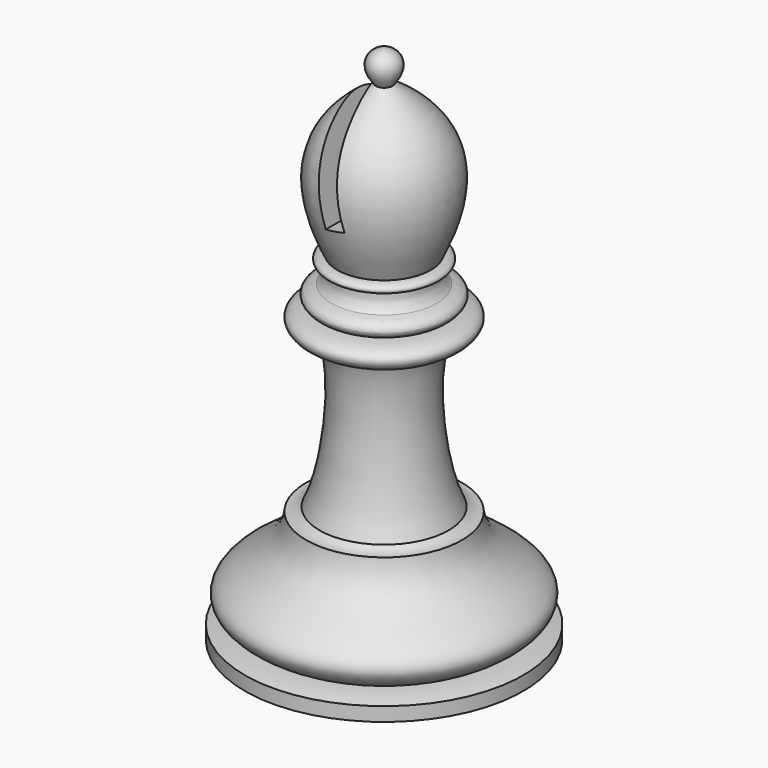
from build123d import *

# Parameters (mm, degrees)
F4_DEPTH = 25


with BuildPart() as f2:
    # F1 (on Front) → F2 (revolve)
    with BuildSketch(Plane.XZ):
        with BuildLine():
            Line((-10, 0), (0, 0))
            Line((0, 0), (0, 37.3768918216))
            add(Edge.make_bspline(
                [(-0.6, 35.1937040687), (-1.7320077168, 36.5965291858), (-0.7042200305, 37.3861715198), (0, 37.3768918216)],
                knots=[0, 0, 0, 0, 2.2641353238, 2.2641353238, 2.2641353238, 2.2641353238], degree=3))
            add(Edge.make_bspline(
                [(-3.3507852349, 24.4516711682), (-6.3570523635, 30.6930169463), (-3.5995733924, 33.2499518991), (-0.6, 35.1937040687)],
                knots=[0, 0, 0, 0, 11.0886469077, 11.0886469077, 11.0886469077, 11.0886469077], degree=3))
            add(Edge.make_bspline(
                [(-3.3507852349, 23.7380396575), (-4.3494068086, 23.8647516817), (-4.028938245, 24.4386140257), (-3.3507852349, 24.4516711682)],
                knots=[0, 0, 0, 0, 0.7136315107, 0.7136315107, 0.7136315107, 0.7136315107], degree=3))
            add(Edge.make_bspline(
                [(-3.8014997263, 22.4985741079), (-3.4103591461, 22.7468386292), (-3.335831454, 23.2387203723), (-3.3507852349, 23.7380396575)],
                knots=[0, 0, 0, 0, 1.318870123, 1.318870123, 1.318870123, 1.318870123], degree=3))
            add(Edge.make_bspline(
                [(-3.8014997263, 21.1839899421), (-4.4537456706, 21.1817584932), (-5.4151513614, 22.0909956843), (-3.8014997263, 22.4985741079)],
                knots=[0, 0, 0, 0, 1.3145841658, 1.3145841658, 1.3145841658, 1.3145841658], degree=3))
            add(Edge.make_bspline(
                [(-3.8014997263, 19.3435717374), (-5.6089232676, 19.4303598255), (-6.7044785246, 21.092325449), (-3.8014997263, 21.1839899421)],
                knots=[0, 0, 0, 0, 1.8404182047, 1.8404182047, 1.8404182047, 1.8404182047], degree=3))
            add(Edge.make_bspline(
                [(-4.6344301663, 8.4140021354), (-3.5212442745, 10.7452757657), (-2.7253848966, 16.4754614234), (-3.8014997263, 19.3435717374)],
                knots=[0, 0, 0, 0, 10.9612620078, 10.9612620078, 10.9612620078, 10.9612620078], degree=3))
            add(Edge.make_bspline(
                [(-5.5932807736, 8.1069199368), (-5.2799307741, 8.0755846575), (-4.935245961, 8.2071917132), (-4.6344301663, 8.4140021354)],
                knots=[0, 0, 0, 0, 1.0068237004, 1.0068237004, 1.0068237004, 1.0068237004], degree=3))
            add(Edge.make_bspline(
                [(-8.1584081054, 1.3149880106), (-11.3595824579, 3.0161592519), (-6.5746559821, 5.2802580502), (-5.7193240103, 6.9660751392), (-5.5932807736, 8.1069199368)],
                knots=[0, 0, 0, 0, 0.5166167642, 1, 1, 1, 1], degree=3))
            add(Edge.make_bspline(
                [(-10, 1), (-9.344516322, 1.1965511367), (-8.7742200121, 1.2905560434), (-8.1584081054, 1.3149880106)],
                knots=[0, 0, 0, 0, 1.8683356639, 1.8683356639, 1.8683356639, 1.8683356639], degree=3))
            Line((-10, 1), (-10, 0))
        make_face()
    revolve(axis=Axis((0, 0, 18.6884459108), (0, 0, -1)))

    # F3 (on Front) → F4 (cut, symmetric)
    with BuildSketch(Plane.XZ):
        Polygon((0.7137159574, 27.7432506433), (-0.6, 35.1937040687), (-1.9849170443, 34.9495058277), (-0.6712010869, 27.4990524024), align=None)
    extrude(amount=F4_DEPTH, both=True, mode=Mode.SUBTRACT)


solid = f2.part
